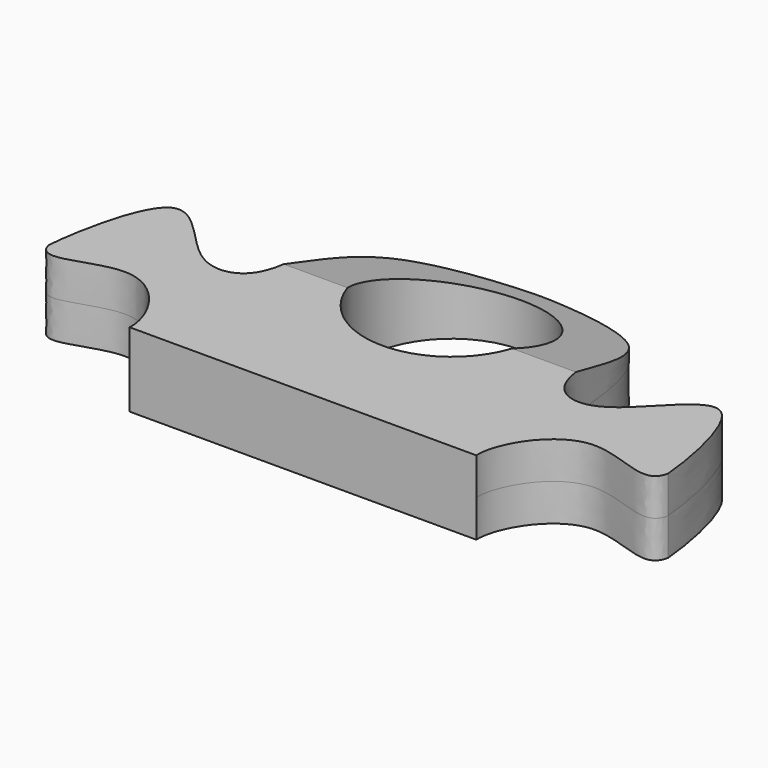
from build123d import *

# Parameters (mm, degrees)
F0_R     = 22.225
F1_DEPTH = 9.525
F3_W     = 117.8007498384
F3_H     = 102.1766290069
F4_DEPTH = 12.7


with BuildPart() as f1:
    # F0 (on Top) → F1 (new body, symmetric)
    with BuildSketch(Plane.XY):
        with BuildLine():
            add(Edge.make_bspline(
                [(0, 38.1), (4.5247688773, 38.1), (39.2374196705, 35.2983955359), (35.1787959147, -0.2265828757), (43.4642249392, -8.3974483761), (54.7226468179, -6.0915054166), (72.989334639, 20.7075696796), (78.8462924526, -13.1098367435), (79.375, -20.2645347237)],
                knots=[0, 0, 0, 0, 0.2056825017, 0.4067005944, 0.5170504344, 0.6366581151, 0.8003159695, 1, 1, 1, 1], degree=3))
            add(Edge.make_bspline(
                [(0, 38.1), (-4.5247688773, 38.1), (-39.2374196705, 35.2983955359), (-35.1787959147, -0.2265828757), (-43.4642249392, -8.3974483761), (-54.7226468179, -6.0915054166), (-72.989334639, 20.7075696796), (-78.8462924526, -13.1098367435), (-79.375, -20.2645347237)],
                knots=[0, 0, 0, 0, 0.2056825017, 0.4067005944, 0.5170504344, 0.6366581151, 0.8003159695, 1, 1, 1, 1], degree=3))
            add(Edge.make_bspline(
                [(-44.45, -38.1), (-44.1656482425, -31.5191401215), (-56.5836913358, -10.3396130207), (-77.9258282674, -27.8108887773), (-79.375, -20.2645347237)],
                knots=[0, 0, 0, 0, 0.5219498595, 1, 1, 1, 1], degree=3))
            Line((-44.45, -38.1), (44.45, -38.1))
            add(Edge.make_bspline(
                [(44.45, -38.1), (44.1656482425, -31.5191401215), (56.5836913358, -10.3396130207), (77.9258282674, -27.8108887773), (79.375, -20.2645347237)],
                knots=[0, 0, 0, 0, 0.5219498595, 1, 1, 1, 1], degree=3))
        make_face()
        with Locations((0, 9.525)):
            Circle(F0_R, mode=Mode.SUBTRACT)
    extrude(amount=F1_DEPTH, both=True)

    # F3 (on line) → F4 (cut)
    with BuildSketch(Plane(origin=(0, 2.5522160579, 9.525), x_dir=(1, 0, 0), z_dir=(0, 0.2588190451, 0.9659258263))):
        Rectangle(F3_W, F3_H)
    extrude(amount=F4_DEPTH, mode=Mode.SUBTRACT)


solid = f1.part
